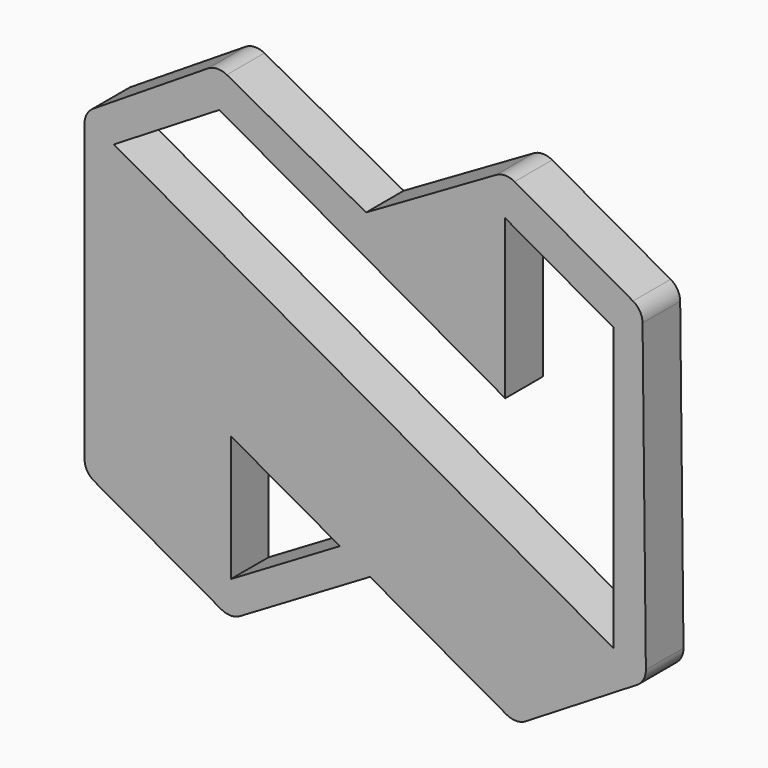
from build123d import *

# Parameters (mm, degrees)
F1_DEPTH = 5
F2_R     = 2


with BuildPart() as f1:
    # F0 (on Front) → F1 (new body)
    with BuildSketch(Plane.XZ):
        Polygon((15.221183, 25.589402), (0.426741, 17.017691), (-15.418572, 25.644877), (-29.515327, 16.704283), (-29.515327, -16.961344), (-13.963126, -25.711559), (0.841107, -16.961344), (16.393308, -25.711559), (30.185388, -17.256112), (29.809576, 17.388582), align=None)
        Polygon((-2.354774, -15.121066), (-13.963126, -21.982318), (-13.963126, -8.595468), align=None, mode=Mode.SUBTRACT)
        Polygon((15.221183, 4.428767), (15.221183, 21.288337), (26.722113, 14.817509), (26.722113, -15.223855), (-26.395499, 14.661982), (-15.183636, 21.535588), align=None, mode=Mode.SUBTRACT)
    extrude(amount=F1_DEPTH)

    # F2
    f2_edges = [f1.edges().sort_by_distance(p)[0] for p in [
        (15.221183, -2.5, 25.589402),
        (29.809576, -2.5, 17.388582),
        (30.185388, -2.5, -17.256112),
        (-15.418572, -2.5, 25.644877),
        (16.393308, -2.5, -25.711559),
        (-13.963126, -2.5, -25.711559),
        (-29.515327, -2.5, -16.961344),
        (-29.515327, -2.5, 16.704283),
    ]]
    fillet(f2_edges, radius=F2_R)


solid = f1.part
